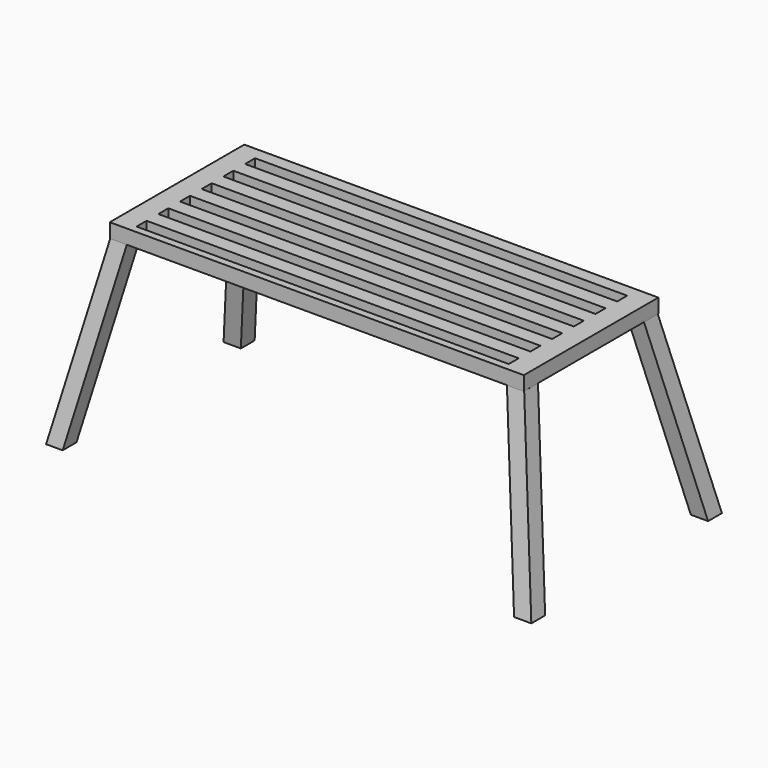
from build123d import *

# Parameters (mm, degrees)
SKETCH_W            = 116.082786
SKETCH_H            = 47.133754
PAD_DEPTH           = 4
SKETCH001_W         = 104.335838
SKETCH001_H         = 3.503182
POCKET_DEPTH        = 9
LINEARPATTERN_COUNT = 6
LINEARPATTERN_PITCH = 7.6
SKETCH002_W         = 4.652203
SKETCH002_H         = 4.844048
SKETCH003_W         = 4.652203
SKETCH003_H         = 4.844048
SKETCH004_W         = 4.84
SKETCH004_H         = 4.84
SKETCH005_W         = 4.84
SKETCH005_H         = 4.84
SKETCH006_W         = 4.84
SKETCH006_H         = 4.84
SKETCH007_W         = 4.84
SKETCH007_H         = 4.84
SKETCH008_W         = 4.84
SKETCH008_H         = 4.84
SKETCH009_W         = 4.84
SKETCH009_H         = 4.84


with BuildPart() as part:
    # Sketch → Pad (new body)
    with BuildSketch(Plane.XY):
        Rectangle(SKETCH_W, SKETCH_H)
    extrude(amount=PAD_DEPTH)

    # Sketch001 (on Face6 of Pad) → Pocket (cut)
    with BuildSketch(Plane.XY.offset(4)):
        with Locations((0, 18.245884)):
            Rectangle(SKETCH001_W, SKETCH001_H)
    pocket = extrude(amount=-POCKET_DEPTH, mode=Mode.SUBTRACT)

    # LinearPattern: Pocket ×6
    with Locations(*[(0, -i * LINEARPATTERN_PITCH, 0) for i in range(1, LINEARPATTERN_COUNT)]):
        add(pocket, mode=Mode.SUBTRACT)

    # Sketch002 (on Face4 of LinearPattern) → AdditiveLoft section 0
    with BuildSketch(Plane(origin=(0, 0, 0), x_dir=(1, 0, 0), z_dir=(0, 0, -1))):
        with Locations((-55.65727, 21.038372)):
            Rectangle(SKETCH002_W, SKETCH002_H)
    # Sketch003 (on Face4 of LinearPattern) → AdditiveLoft section 1
    with BuildSketch(Plane(origin=(-10, -10, -50), x_dir=(1, 0, 0), z_dir=(0, 0, -1))):
        with Locations((-55.65727, 21.038372)):
            Rectangle(SKETCH003_W, SKETCH003_H)
    loft()

    # Sketch004 (on Face4 of AdditiveLoft) → AdditiveLoft001 section 0
    with BuildSketch(Plane(origin=(0, 0, 0), x_dir=(1, 0, 0), z_dir=(0, 0, -1))):
        with Locations((55.627524, 21.025991)):
            Rectangle(SKETCH004_W, SKETCH004_H)
    # Sketch005 (on Face4 of AdditiveLoft) → AdditiveLoft001 section 1
    with BuildSketch(Plane(origin=(10, -10, -50), x_dir=(1, 0, 0), z_dir=(0, 0, -1))):
        with Locations((55.627524, 21.025991)):
            Rectangle(SKETCH005_W, SKETCH005_H)
    loft()

    # Sketch006 (on Face4 of AdditiveLoft001) → AdditiveLoft002 section 0
    with BuildSketch(Plane(origin=(0, 0, 0), x_dir=(1, 0, 0), z_dir=(0, 0, -1))):
        with Locations((-55.457449, -21.029405)):
            Rectangle(SKETCH006_W, SKETCH006_H)
    # Sketch007 (on Face4 of AdditiveLoft001) → AdditiveLoft002 section 1
    with BuildSketch(Plane(origin=(-10, 10, -50), x_dir=(1, 0, 0), z_dir=(0, 0, -1))):
        with Locations((-55.457449, -21.029405)):
            Rectangle(SKETCH007_W, SKETCH007_H)
    loft()

    # Sketch008 (on Face4 of AdditiveLoft002) → AdditiveLoft003 section 0
    with BuildSketch(Plane(origin=(0, 0, 0), x_dir=(1, 0, 0), z_dir=(0, 0, -1))):
        with Locations((55.563696, -21.007741)):
            Rectangle(SKETCH008_W, SKETCH008_H)
    # Sketch009 (on Face4 of AdditiveLoft002) → AdditiveLoft003 section 1
    with BuildSketch(Plane(origin=(10, 10, -50), x_dir=(1, 0, 0), z_dir=(0, 0, -1))):
        with Locations((55.563696, -21.007741)):
            Rectangle(SKETCH009_W, SKETCH009_H)
    loft()


solid = part.part
